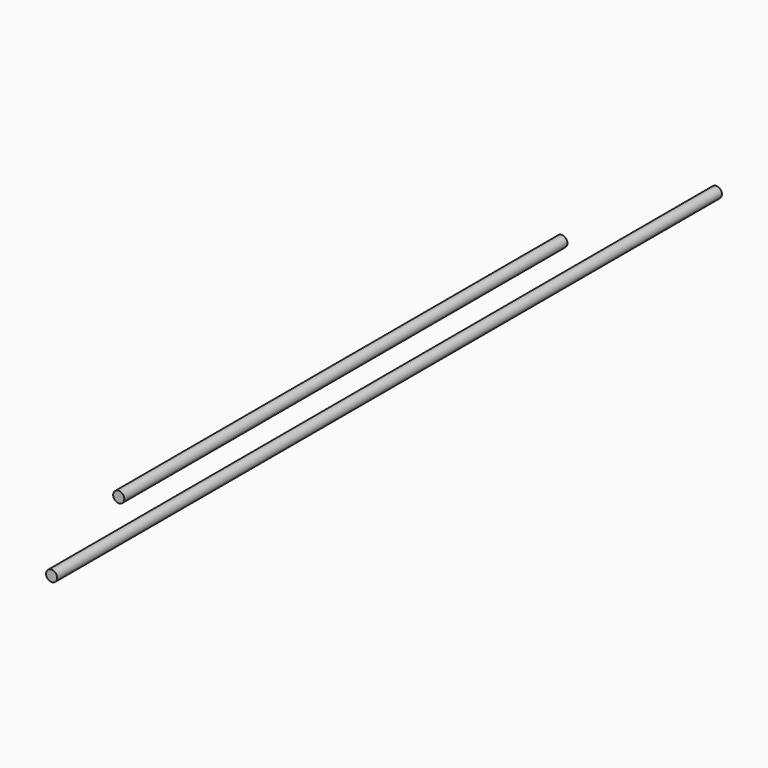
from build123d import *

# Parameters (mm, degrees)
F0_R     = 2
F1_DEPTH = 100
F2_DEPTH = 150


with BuildPart() as f1:
    # F0 (on Front) → F1 (new body, symmetric)
    with BuildSketch(Plane.XZ):
        with Locations((-36.097709, 19.37877)):
            Circle(F0_R)
    extrude(amount=F1_DEPTH, both=True)


with BuildPart() as f2:
    # F0 (on Front) → F2 (new body, symmetric)
    with BuildSketch(Plane.XZ):
        with Locations((-20.32871, 19.758746)):
            Circle(F0_R)
    extrude(amount=F2_DEPTH, both=True)


solid = Compound([f1.part, f2.part])
